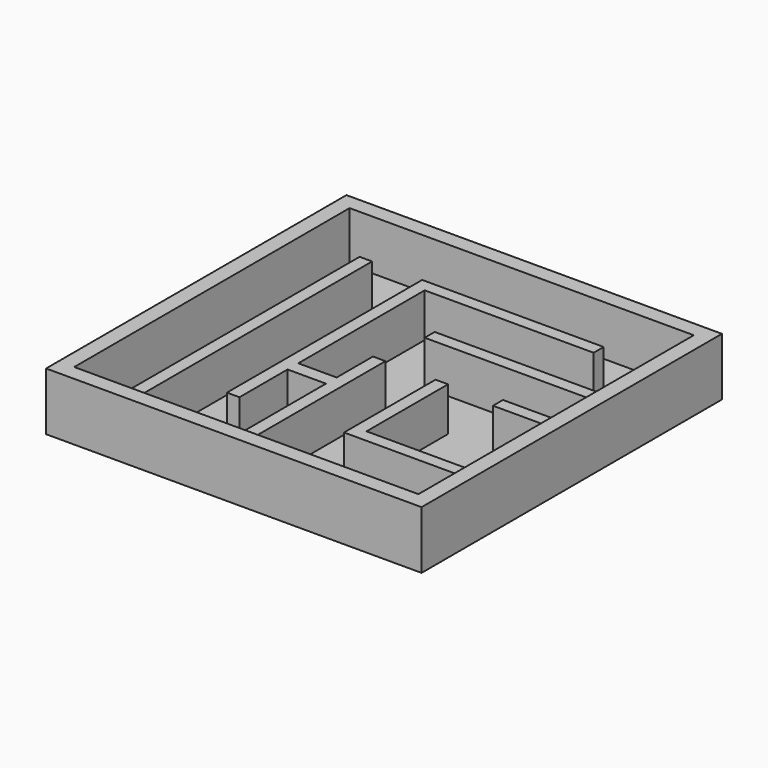
from build123d import *

# Parameters (mm, degrees)
F0_W     = 38.1
F0_H     = 38.1
F1_DEPTH = 0.79375
F2_W     = 38.1
F2_H     = 38.1
F2_W_2   = 34.925
F2_H_2   = 34.925
F3_DEPTH = 5.08
F4_R     = 1.27
F5_DEPTH = 0.396875
F4_W     = 17.145
F4_H     = 1.27
F4_W_2   = 5.628426
F6_DEPTH = 4.445


with BuildPart() as f1:
    # F0 (on Top) → F1 (new body)
    with BuildSketch(Plane.XY):
        with Locations((-4.706472, 2.053222)):
            Rectangle(F0_W, F0_H)
    extrude(amount=F1_DEPTH)

    # F2 (on face) → F3 (join)
    with BuildSketch(Plane.XY.offset(0.79375)):
        with Locations((-4.706472, 2.053222)):
            Rectangle(F2_W, F2_H)
        with Locations((-4.706472, 2.053222)):
            Rectangle(F2_W_2, F2_H_2, mode=Mode.SUBTRACT)
    extrude(amount=F3_DEPTH)

    # F4 (on face) → F5 (cut)
    with BuildSketch(Plane.XY.offset(0.79375)):
        with Locations((-19.628972, -11.599278)):
            Circle(F4_R)
        with Locations((6.311192, -12.801387)):
            Circle(F4_R)
    extrude(amount=-F5_DEPTH, mode=Mode.SUBTRACT)

    # F4 (on face) → F6 (join)
    with BuildSketch(Plane.XY.offset(0.79375)):
        Polygon((-17.088972, 14.435722), (-17.088972, -15.409278), (-15.818972, -15.409278), (-15.818972, 4.593222), (-15.818972, 6.320145), (-15.818972, 14.435722), align=None)
        Polygon((-5.572398, -4.224189), (-5.572398, -15.409278), (-4.302398, -15.409278), (-4.302398, -2.868028), (-4.302398, 1.735722), (-5.572398, 1.735722), (-5.572398, -2.868028), (-9.468972, -2.868028), (-9.468972, 4.593222), (-9.468972, 6.320145), (-9.468972, 13.165722), (7.676028, 13.165722), (7.676028, 14.435722), (-9.468972, 14.435722), (-10.738972, 14.435722), (-10.738972, 6.320145), (-10.738972, 4.593222), (-10.738972, -10.329278), (-9.468972, -10.329278), (-9.468972, -4.224189), align=None)
        with Locations((4.183528, 7.450722)):
            Rectangle(F4_W, F4_H)
        Polygon((7.676028, -9.87266), (12.756028, -9.87266), (12.756028, -8.60266), (7.676028, -8.60266), (2.047602, -8.60266), (2.047602, 1.735722), (0.777602, 1.735722), (0.777602, -4.068469), (0.777602, -5.338469), (0.777602, -9.87266), (2.047602, -9.87266), align=None)
        with Locations((9.941815, 1.718128)):
            Rectangle(F4_W_2, F4_H)
    extrude(amount=F6_DEPTH)


solid = f1.part
